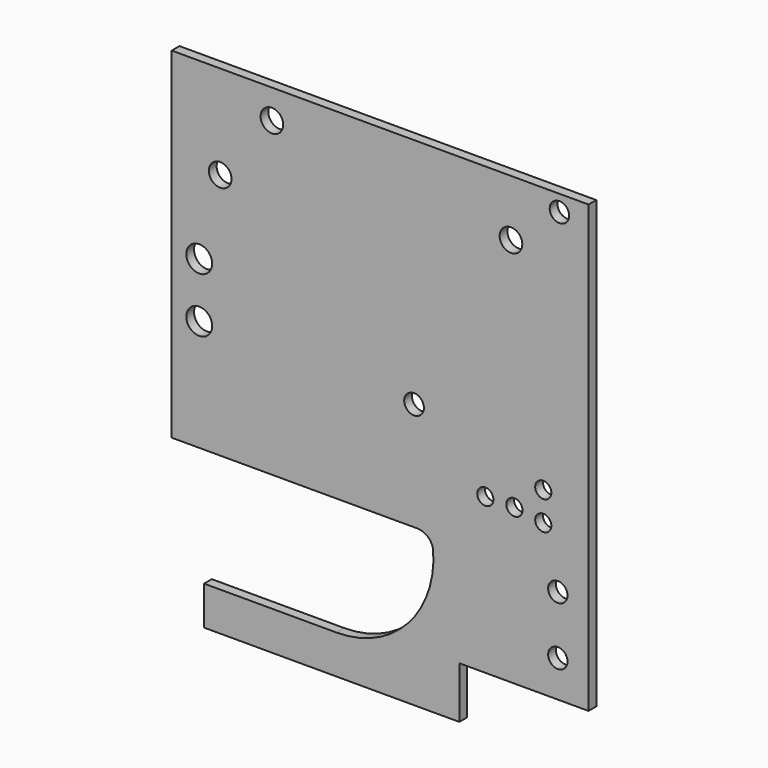
from build123d import *

# Parameters (mm, degrees)
F1_DEPTH = 3
F2_D     = 6
F3_D     = 7
F4_D     = 6.1
F6_D     = 5
F7_D     = 8
F8_D     = 6


with BuildPart() as f1:
    # F0 (on Front) → F1 (new body)
    with BuildSketch(Plane.XZ):
        with BuildLine():
            Line((129, 0), (0, 0))
            Line((0, 0), (0, -105.5))
            Line((0, -105.5), (76, -105.5))
            ThreePointArc((76, -105.5), (79.1515590041, -106.6182895724), (80.8933757798, -109.4729296625))
            ThreePointArc((80.8933757798, -109.4729296625), (73.0885955883, -132.3000971657), (51, -142))
            Line((51, -142), (10, -142))
            Line((10, -142), (10, -154))
            Line((10, -154), (89, -154))
            Line((89, -154), (89, -138))
            Line((89, -138), (129, -138))
            Line((129, -138), (129, 0))
        make_face()
    extrude(amount=F1_DEPTH)

    # F2 (through all)
    with Locations(Plane(origin=(0, 0, 0), x_dir=(1, 0, 0), z_dir=(0, 1, 0))):
        with Locations((120, 5)):
            Hole(F2_D / 2)

    # F3 (through all)
    with Locations(Plane(origin=(0, 0, 0), x_dir=(1, 0, 0), z_dir=(0, 1, 0))):
        with Locations((15, 29), (31, 9), (105, 17.5)):
            Hole(F3_D / 2)

    # F4 (through all)
    with Locations(Plane(origin=(0, 0, 0), x_dir=(1, 0, 0), z_dir=(0, 1, 0))):
        with Locations((75, 72)):
            Hole(F4_D / 2)

    # F6 (through all)
    with Locations(Plane.XZ.offset(3)):
        with Locations((106.059, -89.975), (115, -91.3), (115, -82.3), (97.059, -89.975)):
            Hole(F6_D / 2)

    # F7 (through all)
    with Locations(Plane.XZ.offset(3)):
        with Locations((8.5, -71), (8.5, -54)):
            Hole(F7_D / 2)

    # F8 (through all)
    with Locations(Plane.XZ.offset(3)):
        with Locations((119.5, -108.667), (119.5, -126.667)):
            Hole(F8_D / 2)


solid = f1.part
